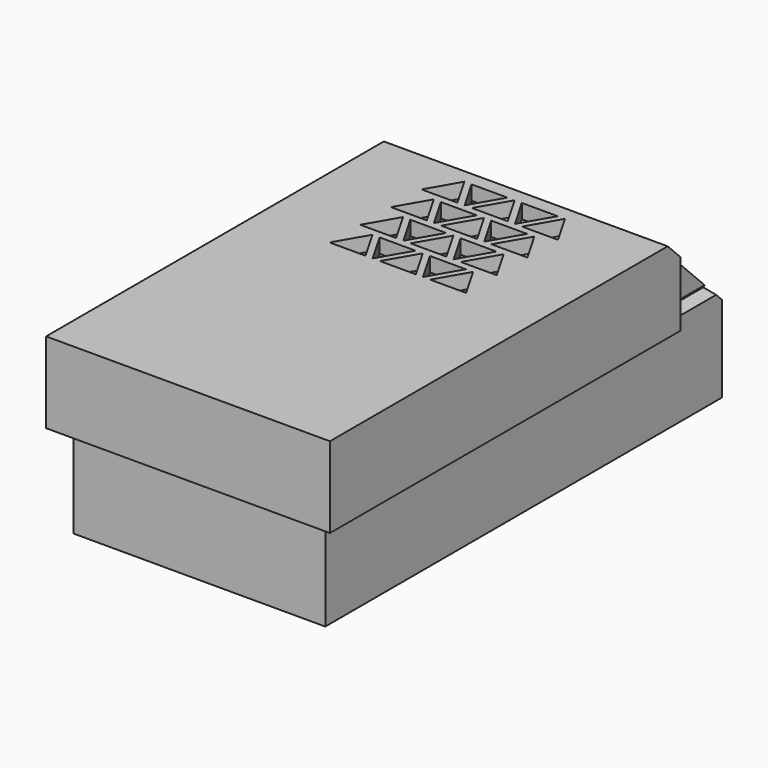
from build123d import *

# Parameters (mm, degrees)
SKETCH_W          = 35
SKETCH_H          = 69
PAD_DEPTH         = 2
PAD001_DEPTH      = 20
SKETCH002_W       = 27
SKETCH002_H       = 2
PAD002_DEPTH      = 3
POCKET_DEPTH      = 35.001
POCKET001_DEPTH   = 69.001
PAD003_DEPTH      = 34.5
PAD003_DEPTH_BACK = 24.5
SKETCH006_W       = 39.5
SKETCH006_H       = 11.25
PAD004_DEPTH      = 2
POCKET002_DEPTH   = 39.501
POCKET003_DEPTH   = 2.001


with BuildPart() as body:
    # Sketch → Pad (new body)
    with BuildSketch(Plane.XY):
        Rectangle(SKETCH_W, SKETCH_H)
    extrude(amount=PAD_DEPTH)

    # Sketch001 (on Face6 of Pad) → Pad001 (join)
    with BuildSketch(Plane.XY.offset(2)):
        Polygon((-15.5, -32.5), (15.5, -32.5), (15.5, 32.5), (13.5, 32.5), (13.5, 34.5), (17.5, 34.5), (17.5, -34.5), (-17.5, -34.5), (-17.5, 34.5), (-13.5, 34.5), (-13.5, 32.5), (-15.5, 32.5), align=None)
    extrude(amount=PAD001_DEPTH)

    # Sketch002 (on Face6 of Pad001) → Pad002 (join)
    with BuildSketch(Plane.XY.offset(2)):
        with Locations((0, 33.5)):
            Rectangle(SKETCH002_W, SKETCH002_H)
    extrude(amount=PAD002_DEPTH)

    # Sketch003 (on Face9 of Pad002) → Pocket (cut, through all)
    with BuildSketch(Plane(origin=(-17.5, 0, 0), x_dir=(0, -1, 0), z_dir=(-1, 0, 0))):
        Polygon((-34.5, 22), (-34.5, 12), (-24.5, 22), align=None)
    extrude(amount=-POCKET_DEPTH, mode=Mode.SUBTRACT)

    # Sketch004 (on Face16 of Pocket) → Pocket001 (cut, through all)
    with BuildSketch(Plane.XZ.offset(34.5)):
        Polygon((-17.5, 15), (-16.5, 14), (-17.5, 13), align=None)
        Polygon((17.5, 15), (16.5, 14), (17.5, 13), align=None)
    extrude(amount=-POCKET001_DEPTH, mode=Mode.SUBTRACT)


with BuildPart() as lid:
    # Sketch005 → Pad003 (new body, two sides)
    with BuildSketch(Plane.XZ) as pad003_sk:
        Polygon((16.75, 14), (17.75, 13), (19.75, 13), (19.75, 24.25), (-19.75, 24.25), (-19.75, 13), (-17.75, 13), (-16.75, 14), (-17.75, 15), (-17.75, 22.25), (17.75, 22.25), (17.75, 15), align=None)
    extrude(amount=PAD003_DEPTH)
    extrude(pad003_sk.sketch, amount=-PAD003_DEPTH_BACK)

    # Sketch006 (on Face14 of Pad003) → Pad004 (join)
    with BuildSketch(Plane.XZ.offset(34.5)):
        with Locations((0, 18.625)):
            Rectangle(SKETCH006_W, SKETCH006_H)
    extrude(amount=PAD004_DEPTH)

    # Sketch007 (on Face10 of Pad004) → Pocket002 (cut, through all)
    with BuildSketch(Plane(origin=(-19.75, 0, 0), x_dir=(0, 0, -1), z_dir=(-1, 0, 0))):
        Polygon((-12, -34.5), (-24.25, -22.25), (-24.25, -34.5), align=None)
    extrude(amount=-POCKET002_DEPTH, mode=Mode.SUBTRACT)

    # Sketch008 (on Face10 of Pocket002) → Pocket003 (cut, through all)
    with BuildSketch(Plane(origin=(0, 0, 22.25), x_dir=(1, 0, 0), z_dir=(0, 0, -1))):
        Polygon((-9.5, 0), (-7, -4.330127), (-4.5, 0), align=None)
        Polygon((-2.5, 0), (0, -4.330127), (2.5, 0), align=None)
        Polygon((9.5, 0), (4.5, 0), (7, -4.330127), align=None)
        Polygon((-3.5, 0), (-6, -4.330127), (-1, -4.330127), align=None)
        Polygon((3.5, 0), (1, -4.330127), (6, -4.330127), align=None)
        Polygon((-9.5, -5.330127), (-7, -9.660254), (-4.5, -5.330127), align=None)
        Polygon((-2.5, -5.330127), (0, -9.660254), (2.5, -5.330127), align=None)
        Polygon((9.5, -5.330127), (4.5, -5.330127), (7, -9.660254), align=None)
        Polygon((-3.5, -5.330127), (-6, -9.660254), (-1, -9.660254), align=None)
        Polygon((3.5, -5.330127), (1, -9.660254), (6, -9.660254), align=None)
        Polygon((-9.5, -10.660254), (-7, -14.990381), (-4.5, -10.660254), align=None)
        Polygon((-2.5, -10.660254), (0, -14.990381), (2.5, -10.660254), align=None)
        Polygon((9.5, -10.660254), (4.5, -10.660254), (7, -14.990381), align=None)
        Polygon((-3.5, -10.660254), (-6, -14.990381), (-1, -14.990381), align=None)
        Polygon((3.5, -10.660254), (1, -14.990381), (6, -14.990381), align=None)
        Polygon((-9.5, -15.990381), (-7, -20.320508), (-4.5, -15.990381), align=None)
        Polygon((-2.5, -15.990381), (0, -20.320508), (2.5, -15.990381), align=None)
        Polygon((9.5, -15.990381), (4.5, -15.990381), (7, -20.320508), align=None)
        Polygon((-3.5, -15.990381), (-6, -20.320508), (-1, -20.320508), align=None)
        Polygon((3.5, -15.990381), (1, -20.320508), (6, -20.320508), align=None)
    extrude(amount=-POCKET003_DEPTH, mode=Mode.SUBTRACT)


solid = Compound([body.part, lid.part])
